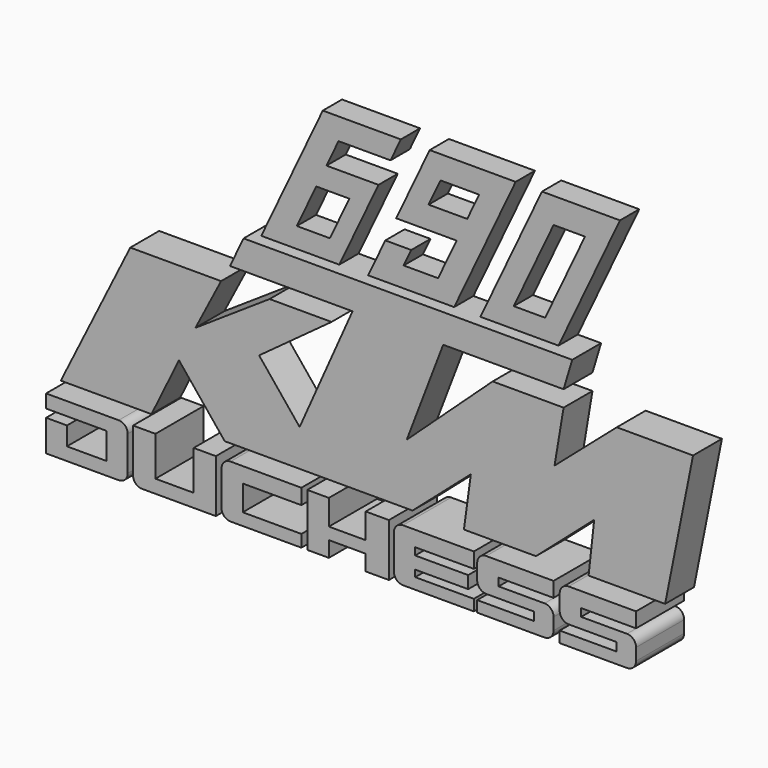
from build123d import *

# Parameters (mm, degrees)
F0_W     = 3.0607780209
F0_H     = 2.1009956449
F1_DEPTH = 5
F3_DEPTH = 2
F4_START = -3
F4_DEPTH = 2


with BuildPart() as f1:
    # F0 (on Front) → F1 (new body)
    with BuildSketch(Plane.XZ):
        with BuildLine():
            Line((-13.4510826319, 3.0807058793), (-20.9973859143, 3.0807058793))
            Line((-20.9973859143, 3.0807058793), (-26.770388545, -8.5309240967))
            Line((-26.770388545, -8.5309240967), (-26.3940021396, -8.5309240967))
            Line((-26.3940021396, -8.5309240967), (-26.3940021396, -9.6365026161))
            Line((-26.3940021396, -9.6365026161), (-21.3870331645, -9.6365026161))
            Line((-21.3870331645, -9.6365026161), (-21.3870331645, -11.8402632847))
            Line((-21.3870331645, -11.8402632847), (-24.6597826481, -11.8402632847))
            Line((-24.6597826481, -11.8402632847), (-24.6597826481, -10.3107876107))
            Line((-24.6597826481, -10.3107876107), (-26.3940021396, -10.3107876107))
            Line((-26.3940021396, -10.3107876107), (-26.3940021396, -12.9192377403))
            Line((-26.3940021396, -12.9192377403), (-20.359800871, -12.9192377403))
            ThreePointArc((-20.359800871, -12.9192377403), (-19.8294707851, -12.6995678262), (-19.609800871, -12.1692377403))
            Line((-19.609800871, -12.1692377403), (-19.609800871, -9.2809240967))
            ThreePointArc((-19.609800871, -9.2809240967), (-19.8294707851, -8.7505940108), (-20.359800871, -8.5309240967))
            Line((-20.359800871, -8.5309240967), (-19.2351932671, -8.5309240967))
            Line((-19.2351932671, -8.5309240967), (-16.9493351132, -3.8456239272))
            Line((-16.9493351132, -3.8456239272), (-13.144302211, -8.5309240967))
            Line((-13.144302211, -8.5309240967), (-14.130868949, -8.5309240967))
            Line((-14.130868949, -8.5309240967), (-14.130868949, -11.8141257167))
            Line((-14.130868949, -11.8141257167), (-17.3050090671, -11.8141257167))
            Line((-17.3050090671, -11.8141257167), (-17.3050090671, -8.5309240967))
            Line((-17.3050090671, -8.5309240967), (-19.167387858, -8.5309240967))
            Line((-19.167387858, -8.5309240967), (-19.167387858, -12.1691745073))
            ThreePointArc((-19.167387858, -12.1691745073), (-18.9477179439, -12.6995045932), (-18.417387858, -12.9191745073))
            Line((-18.417387858, -12.9191745073), (-12.2846849263, -12.9191745073))
            Line((-12.2846849263, -12.9191745073), (-12.2846849263, -8.5309240967))
            Line((-12.2846849263, -8.5309240967), (-11.065042235, -8.5309240967))
            ThreePointArc((-11.065042235, -8.5309240967), (-11.5953723208, -8.7505940108), (-11.815042235, -9.2809240967))
            Line((-11.815042235, -9.2809240967), (-11.815042235, -12.1692377403))
            ThreePointArc((-11.815042235, -12.1692377403), (-11.5953723208, -12.6995678262), (-11.065042235, -12.9192377403))
            Line((-11.065042235, -12.9192377403), (-5.1752589643, -12.9192377403))
            Line((-5.1752589643, -12.9192377403), (-5.1752589643, -11.9112924635))
            Line((-5.1752589643, -11.9112924635), (-10.0498311222, -11.9112924635))
            Line((-10.0498311222, -11.9112924635), (-10.0498311222, -9.8059958741))
            Line((-10.0498311222, -9.8059958741), (-5.1752589643, -9.8059958741))
            Line((-5.1752589643, -9.8059958741), (-5.1752589643, -8.5309240967))
            Line((-5.1752589643, -8.5309240967), (-4.6894219704, -8.5309240967))
            Line((-4.6894219704, -8.5309240967), (-4.6894219704, -12.9192377403))
            Line((-4.6894219704, -12.9192377403), (-2.891822136, -12.9192377403))
            Line((-2.891822136, -12.9192377403), (-2.891822136, -11.6197903603))
            Line((-2.891822136, -11.6197903603), (0.1689558849, -11.6197903603))
            Line((0.1689558849, -11.6197903603), (0.1689558849, -12.9192377403))
            Line((0.1689558849, -12.9192377403), (2.096112119, -12.9192377403))
            Line((2.096112119, -12.9192377403), (2.096112119, -8.5309240967))
            Line((2.096112119, -8.5309240967), (2.4571896065, -8.5309240967))
            Line((2.4571896065, -8.5309240967), (7.3034735397, -4.2975358665))
            Line((7.3034735397, -4.2975358665), (6.7291194573, -8.5309240967))
            Line((6.7291194573, -8.5309240967), (3.2661118247, -8.5309240967))
            ThreePointArc((3.2661118247, -8.5309240967), (2.7357817388, -8.7505940108), (2.5161118247, -9.2809240967))
            Line((2.5161118247, -9.2809240967), (2.5161118247, -12.1692377403))
            ThreePointArc((2.5161118247, -12.1692377403), (2.7357817388, -12.6995678262), (3.2661118247, -12.9192377403))
            Line((3.2661118247, -12.9192377403), (9.1558950953, -12.9192377403))
            Line((9.1558950953, -12.9192377403), (9.1558950953, -11.9984643534))
            Line((9.1558950953, -11.9984643534), (4.2813229375, -11.9984643534))
            Line((4.2813229375, -11.9984643534), (4.2813229375, -11.445844546))
            Line((4.2813229375, -11.445844546), (8.6850486696, -11.445844546))
            Line((8.6850486696, -11.445844546), (8.6850486696, -10.4135535657))
            Line((8.6850486696, -10.4135535657), (4.2813229375, -10.4135535657))
            Line((4.2813229375, -10.4135535657), (4.2813229375, -9.805932641))
            Line((4.2813229375, -9.805932641), (9.1558950953, -9.805932641))
            Line((9.1558950953, -9.805932641), (9.1558950953, -8.5309240967))
            Line((9.1558950953, -8.5309240967), (10.1831596047, -8.5309240967))
            ThreePointArc((10.1831596047, -8.5309240967), (9.6528295188, -8.7505940108), (9.4331596047, -9.2809240967))
            Line((9.4331596047, -9.2809240967), (9.4331596047, -10.550885953))
            ThreePointArc((9.4331596047, -10.550885953), (9.6528295188, -11.0812160389), (10.1831596047, -11.300885953))
            Line((10.1831596047, -11.300885953), (14.1622014344, -11.300885953))
            Line((14.1622014344, -11.300885953), (14.1622014344, -11.9984643534))
            Line((14.1622014344, -11.9984643534), (9.4331596047, -11.9984643534))
            Line((9.4331596047, -11.9984643534), (9.4331596047, -12.9191745073))
            Line((9.4331596047, -12.9191745073), (15.0284558833, -12.9191745073))
            ThreePointArc((15.0284558833, -12.9191745073), (15.5587859692, -12.6995045932), (15.7784558833, -12.1691745073))
            Line((15.7784558833, -12.1691745073), (15.7784558833, -11.1678693146))
            ThreePointArc((15.7784558833, -11.1678693146), (15.5587859692, -10.6375392287), (15.0284558833, -10.4178693146))
            Line((15.0284558833, -10.4178693146), (11.2140327692, -10.4178693146))
            Line((11.2140327692, -10.4178693146), (11.2140327692, -9.7743598744))
            Line((11.2140327692, -9.7743598744), (15.7784558833, -9.7743598744))
            Line((15.7784558833, -9.7743598744), (15.7784558833, -8.5309240967))
            Line((15.7784558833, -8.5309240967), (12.7156563103, -8.5309240967))
            Line((12.7156563103, -8.5309240967), (17.5534840673, -4.2975358665))
            Line((17.5534840673, -4.2975358665), (17.0895829797, -8.5309240967))
            Line((17.0895829797, -8.5309240967), (17.0398395211, -8.5309240967))
            ThreePointArc((17.0398395211, -8.5309240967), (16.5095094352, -8.7505940108), (16.2898395211, -9.2809240967))
            Line((16.2898395211, -9.2809240967), (16.2898395211, -10.550885953))
            ThreePointArc((16.2898395211, -10.550885953), (16.5095094352, -11.0812160389), (17.0398395211, -11.300885953))
            Line((17.0398395211, -11.300885953), (21.0188813508, -11.300885953))
            Line((21.0188813508, -11.300885953), (21.0188813508, -11.9984643534))
            Line((21.0188813508, -11.9984643534), (16.2898395211, -11.9984643534))
            Line((16.2898395211, -11.9984643534), (16.2898395211, -12.9191745073))
            Line((16.2898395211, -12.9191745073), (21.8851357996, -12.9191745073))
            ThreePointArc((21.8851357996, -12.9191745073), (22.4154658855, -12.6995045932), (22.6351357996, -12.1691745073))
            Line((22.6351357996, -12.1691745073), (22.6351357996, -11.1678693146))
            ThreePointArc((22.6351357996, -11.1678693146), (22.4154658855, -10.6375392287), (21.8851357996, -10.4178693146))
            Line((21.8851357996, -10.4178693146), (18.0707126856, -10.4178693146))
            Line((18.0707126856, -10.4178693146), (18.0707126856, -9.7743598744))
            Line((18.0707126856, -9.7743598744), (22.6351357996, -9.7743598744))
            Line((22.6351357996, -9.7743598744), (22.6351357996, -8.5309240967))
            Line((22.6351357996, -8.5309240967), (23.4516598284, -8.5309240967))
            Line((23.4516598284, -8.5309240967), (25.7711652666, 3.0807058793))
            Line((25.7711652666, 3.0807058793), (19.431181252, 3.0807058793))
            Line((19.431181252, 3.0807058793), (14.2619935796, -1.4036741341))
            Line((14.2619935796, -1.4036741341), (15.0130717084, 3.0807058793))
            Line((15.0130717084, 3.0807058793), (9.1148968786, 3.0807058793))
            Line((9.1148968786, 3.0807058793), (1.9796516281, -3.5022755619))
            Line((1.9796516281, -3.5022755619), (5.0060558133, 4.4282288291))
            Line((5.0060558133, 4.4282288291), (15.0130717084, 4.4282288291))
            Line((15.0130717084, 4.4282288291), (15.7288057171, 6.8140071817))
            Line((15.7288057171, 6.8140071817), (-11.583940126, 6.8140071817))
            Line((-11.583940126, 6.8140071817), (-12.7105582505, 4.4282288291))
            Line((-12.7105582505, 4.4282288291), (-2.5268180761, 4.4282288291))
            Line((-2.5268180761, 4.4282288291), (-6.9228359498, -5.4683336057))
            Line((-6.9228359498, -5.4683336057), (-10.288979272, -1.3234569953))
            Line((-10.288979272, -1.3234569953), (-4.2719710618, 3.0807058793))
            Line((-4.2719710618, 3.0807058793), (-9.4190677628, 3.0807058793))
            Line((-9.4190677628, 3.0807058793), (-15.5823286623, -1.0281349532))
            Line((-15.5823286623, -1.0281349532), (-13.4510826319, 3.0807058793))
        make_face()
        with Locations((-1.3614331256, -9.5814219192)):
            Rectangle(F0_W, F0_H, mode=Mode.SUBTRACT)
    extrude(amount=F1_DEPTH)

    # F2 (on face) → F3 (cut)
    with BuildSketch(Plane.XZ.offset(5)):
        Polygon((-26.770388545, 6.8140071817), (-26.770388545, -8.5309240967), (26.5221912414, -8.5309240967), (26.5221912414, 6.8140071817), (13.7877286713, 6.8140071817), (7.3034735397, 6.8140071817), (5.1193437539, 6.8140071817), (4.2332103827, 6.8140071817), (2.1055981025, 6.8140071817), (-2.0268179942, 6.8140071817), (-4.4263883249, 6.8140071817), (-10.9106434565, 6.8140071817), align=None)
        Polygon((-5.7986674306, 17.639362709), (-10.9106434565, 6.8140071817), (-4.4263883249, 6.8140071817), (-1.1687912286, 13.7124446064), (-5.4921403697, 13.7124446064), (-4.4917744037, 15.8308655821), (-0.1684252625, 15.8308655821), (0.685587701, 17.639362709), align=None)
        Polygon((-7.9570718311, 8.492592384), (-6.3421407991, 11.9124446064), (-3.5912522867, 11.9124446064), (-5.2061833186, 8.492592384), align=None, mode=Mode.SUBTRACT)
        Polygon((7.3034735397, 6.8140071817), (13.7877286713, 6.8140071817), (18.8997046972, 17.639362709), (12.4154495655, 17.639362709), align=None)
        Polygon((10.0692709763, 8.492592384), (13.3818611683, 15.5074857175), (15.9919188063, 15.5074857175), (12.6793286143, 8.492592384), align=None, mode=Mode.SUBTRACT)
        Polygon((-0.6024195059, 9.8303789273), (-2.0268179942, 6.8140071817), (2.1055981025, 6.8140071817), (4.2332103827, 6.8140071817), (5.1193437539, 6.8140071817), (10.2313197798, 17.639362709), (3.0851580317, 17.639362709), (0.3012099711, 11.7439462647), (5.3197594389, 11.7439462647), (3.7843971086, 8.492592384), (0.9204373378, 8.492592384), (1.5521701913, 9.8303789273), align=None)
        Polygon((2.98915204, 13.6170848409), (3.9799346353, 15.7152116299), (7.1950801421, 15.7152116299), (6.2042975468, 13.6170848409), align=None, mode=Mode.SUBTRACT)
    extrude(amount=-F3_DEPTH, mode=Mode.SUBTRACT)

    # F2 (on face) → F4 (join)
    with BuildSketch(Plane.XZ.offset(5).offset(F4_START)):
        Polygon((-5.7986674306, 17.639362709), (-10.9106434565, 6.8140071817), (-4.4263883249, 6.8140071817), (-1.1687912286, 13.7124446064), (-5.4921403697, 13.7124446064), (-4.4917744037, 15.8308655821), (-0.1684252625, 15.8308655821), (0.685587701, 17.639362709), align=None)
        Polygon((-7.9570718311, 8.492592384), (-6.3421407991, 11.9124446064), (-3.5912522867, 11.9124446064), (-5.2061833186, 8.492592384), align=None, mode=Mode.SUBTRACT)
        Polygon((-0.6024195059, 9.8303789273), (-2.0268179942, 6.8140071817), (2.1055981025, 6.8140071817), (4.2332103827, 6.8140071817), (5.1193437539, 6.8140071817), (10.2313197798, 17.639362709), (3.0851580317, 17.639362709), (0.3012099711, 11.7439462647), (5.3197594389, 11.7439462647), (3.7843971086, 8.492592384), (0.9204373378, 8.492592384), (1.5521701913, 9.8303789273), align=None)
        Polygon((2.98915204, 13.6170848409), (3.9799346353, 15.7152116299), (7.1950801421, 15.7152116299), (6.2042975468, 13.6170848409), align=None, mode=Mode.SUBTRACT)
        Polygon((12.4154495655, 17.639362709), (7.3034735397, 6.8140071817), (13.7877286713, 6.8140071817), (18.8997046972, 17.639362709), align=None)
        Polygon((10.0692709763, 8.492592384), (13.3818611683, 15.5074857175), (15.9919188063, 15.5074857175), (12.6793286143, 8.492592384), align=None, mode=Mode.SUBTRACT)
    extrude(amount=-F4_DEPTH)


solid = f1.part
